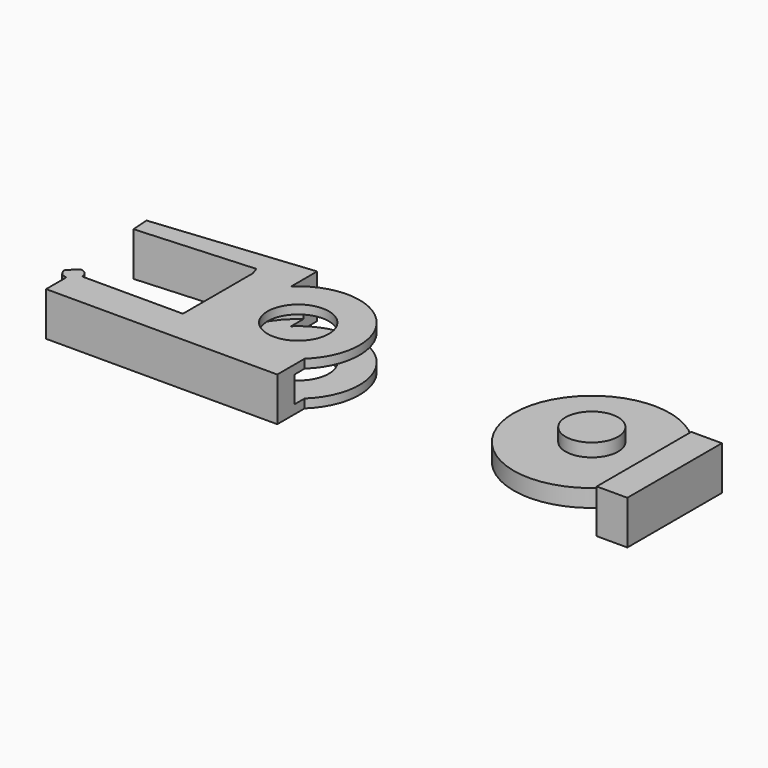
from build123d import *

# Parameters (mm, degrees)
F1_DEPTH      = 5
F1_DEPTH_BACK = 5
F0_R          = 6
F2_DEPTH      = 2
F2_DEPTH_BACK = 2
F3_DEPTH      = 5
F3_DEPTH_BACK = 5
F0_R_2        = 7
F4_DEPTH      = 5
F4_DEPTH_BACK = 5
F6_R          = 16.5043071624
F7_DEPTH      = 3
F7_DEPTH_BACK = 3


with BuildPart() as f1:
    # F0 (on Top) → F1 (new body, two sides)
    with BuildSketch(Plane.XY) as f1_sk:
        Polygon((52.6240400672, 33.1490000429), (45.6240400672, 33.1490000429), (45.6240400672, 13.9311237542), (45.6240400672, 6.1490000429), (52.6240400672, 6.1490000429), align=None)
    extrude(amount=F1_DEPTH)
    extrude(f1_sk.sketch, amount=-F1_DEPTH_BACK)


with BuildPart() as f1b:
    # F0 (on Top) → F1, piece 2 (new body, two sides)
    with BuildSketch(Plane.XY) as f1_2_sk:
        with Locations((30.5944582386, 23.5400618985)):
            Circle(F0_R)
    extrude(amount=F1_DEPTH)
    extrude(f1_2_sk.sketch, amount=-F1_DEPTH_BACK)


with BuildPart() as f2:
    # F0 (on Top) → F2 (new body, two sides)
    with BuildSketch(Plane.XY) as f2_sk:
        with BuildLine():
            Line((45.6240400672, 13.9311237542), (45.6240400672, 33.1490000429))
            ThreePointArc((45.6240400672, 33.1490000429), (12.755735689, 23.5400618985), (45.6240400672, 13.9311237542))
        make_face()
        with Locations((30.5944582386, 23.5400618985)):
            Circle(F0_R, mode=Mode.SUBTRACT)
    extrude(amount=F2_DEPTH)
    extrude(f2_sk.sketch, amount=-F2_DEPTH_BACK)


with BuildPart() as f3:
    # F0 (on Top) → F3 (new body, two sides)
    with BuildSketch(Plane.XY) as f3_sk:
        with BuildLine():
            ThreePointArc((-80.7045657635, 12.1390005094), (-80.1187793258, 10.724786947), (-78.7045657635, 10.1390005094))
            Line((-78.7045657635, 10.1390005094), (-78.7045657635, 12.1390005094))
            Line((-78.7045657635, 12.1390005094), (-78.7045657635, 14.1390005094))
            Line((-78.7045657635, 14.1390005094), (-80.7045657635, 12.1390005094))
        make_face()
        with BuildLine():
            Line((-78.7045657635, 12.1390005094), (-76.7045657635, 12.1390005094))
            ThreePointArc((-76.7045657635, 12.1390005094), (-77.2903522011, 13.5532140718), (-78.7045657635, 14.1390005094))
            Line((-78.7045657635, 14.1390005094), (-78.7045657635, 12.1390005094))
        make_face()
        with BuildLine():
            ThreePointArc((-78.7045657635, 10.1390005094), (-77.2903522011, 10.724786947), (-76.7045657635, 12.1390005094))
            Line((-76.7045657635, 12.1390005094), (-78.7045657635, 12.1390005094))
            Line((-78.7045657635, 12.1390005094), (-78.7045657635, 10.1390005094))
        make_face()
        with BuildLine():
            Line((-78.7045657635, 4.3255217159), (-53.7045657635, 4.3255217159))
            Line((-53.7045657635, 4.3255217159), (-53.7045657635, 12.1390005094))
            Line((-53.7045657635, 12.1390005094), (-76.7045657635, 12.1390005094))
            ThreePointArc((-76.7045657635, 12.1390005094), (-77.2903522011, 10.724786947), (-78.7045657635, 10.1390005094))
            Line((-78.7045657635, 10.1390005094), (-78.7045657635, 4.3255217159))
        make_face()
        Polygon((-25.8910667433, 4.3255217159), (-25.8910667433, 12.1390005094), (-45.1089430319, 12.1390005094), (-45.2121123672, 12.1390005094), (-53.7045657635, 12.1390005094), (-53.7045657635, 4.3255217159), align=None)
        with BuildLine():
            ThreePointArc((-45.2121123672, 12.2373633661), (-49.5000048876, 22.320763998), (-45.2121123672, 32.40416463))
            Line((-45.2121123672, 32.40416463), (-53.7045657635, 32.1390005094))
            Line((-53.7045657635, 32.1390005094), (-53.7045657635, 12.1390005094))
            Line((-53.7045657635, 12.1390005094), (-45.2121123672, 12.1390005094))
            Line((-45.2121123672, 12.1390005094), (-45.2121123672, 12.2373633661))
        make_face()
        Polygon((-53.7045657635, 32.1390005094), (-45.2121123672, 32.40416463), (-45.2121123672, 39.8597121239), (-81.2664240588, 36.2122802645), (-81.0044705868, 32.1390005094), (-54.2979996242, 33.8564992364), align=None)
    extrude(amount=F3_DEPTH)
    extrude(f3_sk.sketch, amount=-F3_DEPTH_BACK)

    # F0 (on Top) → F4 (join, two sides)
    with BuildSketch(Plane.XY) as f4_sk:
        with BuildLine():
            Line((-45.2121123672, 12.2373633661), (-45.2121123672, 32.40416463))
            ThreePointArc((-45.2121123672, 32.40416463), (-49.5000048876, 22.320763998), (-45.2121123672, 12.2373633661))
        make_face()
        with BuildLine():
            Line((-45.1089430319, 12.1390005094), (-25.8910667433, 12.1390005094))
            ThreePointArc((-25.8910667433, 12.1390005094), (-25.3672915201, 31.9814119998), (-45.2121123672, 32.40416463))
            Line((-45.2121123672, 32.40416463), (-45.2121123672, 12.2373633661))
            ThreePointArc((-45.2121123672, 12.2373633661), (-45.1606528893, 12.1880506306), (-45.1089430319, 12.1390005094))
        make_face()
        with Locations((-35.5000048876, 22.320763998)):
            Circle(F0_R_2, mode=Mode.SUBTRACT)
    extrude(amount=F4_DEPTH)
    extrude(f4_sk.sketch, amount=-F4_DEPTH_BACK)

    # F6 (on Top) → F7 (cut, two sides)
    with BuildSketch(Plane.XY) as f7_sk:
        with Locations((-35.6732159853, 22.4846862257)):
            Circle(F6_R)
    extrude(amount=-F7_DEPTH, mode=Mode.SUBTRACT)
    extrude(f7_sk.sketch, amount=F7_DEPTH_BACK, mode=Mode.SUBTRACT)


solid = Compound([f1.part, f1b.part, f2.part, f3.part])
